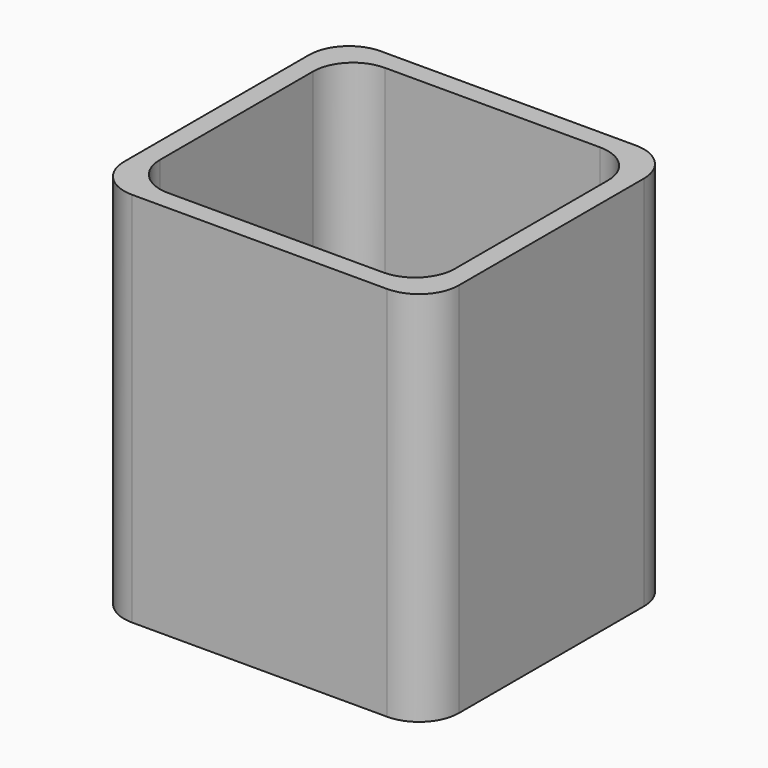
from build123d import *

# Parameters (mm, degrees)
F0_W     = 42
F0_H     = 39
F0_R     = 12.75
F1_DEPTH = 47.25
F2_W     = 37
F2_H     = 34
F2_R     = 12.75
F3_DEPTH = 45
F4_R     = 5


with BuildPart() as f1:
    # F0 (on Top) → F1 (new body)
    with BuildSketch(Plane.XY):
        Rectangle(F0_W, F0_H)
        Circle(F0_R, mode=Mode.SUBTRACT)
    extrude(amount=F1_DEPTH)

    # F2 (on face) → F3 (cut)
    with BuildSketch(Plane.XY.offset(47.25)):
        Rectangle(F2_W, F2_H)
        Circle(F2_R, mode=Mode.SUBTRACT)
    extrude(amount=-F3_DEPTH, mode=Mode.SUBTRACT)

    # F4
    f4_edges = [f1.edges().sort_by_distance(p)[0] for p in [
        (-21, -19.5, 23.625),
        (21, -19.5, 23.625),
        (21, 19.5, 23.625),
        (-21, 19.5, 23.625),
        (-18.5, -17, 24.75),
        (-18.5, 17, 24.75),
        (18.5, 17, 24.75),
        (18.5, -17, 24.75),
    ]]
    fillet(f4_edges, radius=F4_R)


solid = f1.part
